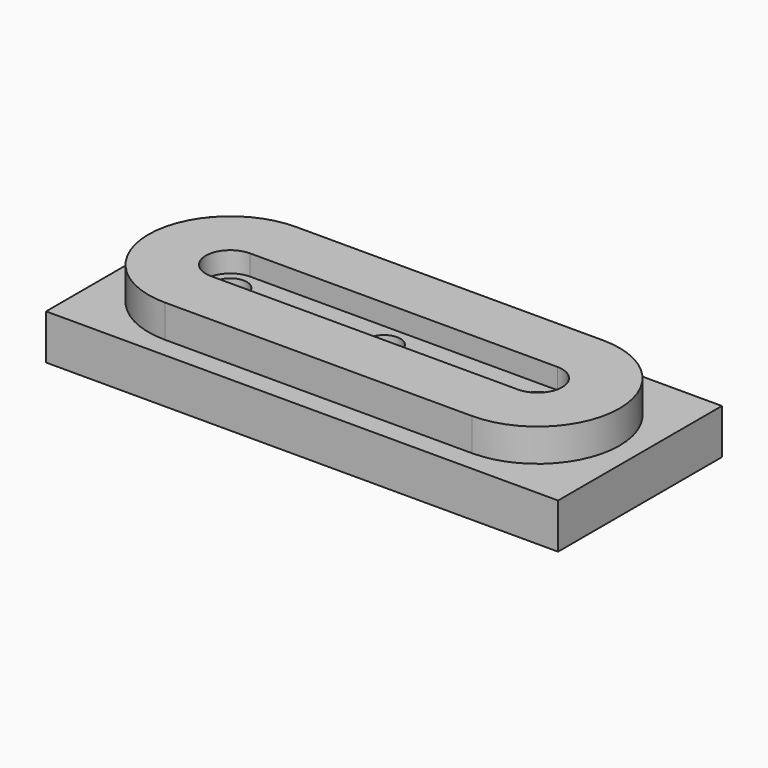
from build123d import *

# Parameters (mm, degrees)
F0_W     = 125
F0_H     = 50
F1_DEPTH = 11
F3_DEPTH = 8
F5_DEPTH = 5
F7_D     = 8
F7_DEPTH = 10.6
F7_TIP   = 2.4034424761
F9_D     = 8
F9_DEPTH = 10.6
F9_TIP   = 2.4034424761


with BuildPart() as f1:
    # F0 (on Top) → F1 (new body)
    with BuildSketch(Plane.XY):
        Rectangle(F0_W, F0_H)
    extrude(amount=F1_DEPTH)

    # F2 (on face) → F3 (join)
    with BuildSketch(Plane.XY.offset(11)):
        with BuildLine():
            ThreePointArc((37.5, -20), (57.5, 0), (37.5, 20))
            Line((37.5, 20), (-37.5, 20))
            ThreePointArc((-37.5, 20), (-57.5, 0), (-37.5, -20))
            Line((-37.5, -20), (37.5, -20))
        make_face()
    extrude(amount=F3_DEPTH)

    # F4 (on face) → F5 (cut)
    with BuildSketch(Plane.XY.offset(19)):
        with BuildLine():
            ThreePointArc((37.5, -6), (43.5, 0), (37.5, 6))
            Line((37.5, 6), (-37.5, 6))
            ThreePointArc((-37.5, 6), (-43.5, 0), (-37.5, -6))
            Line((-37.5, -6), (37.5, -6))
        make_face()
    extrude(amount=-F5_DEPTH, mode=Mode.SUBTRACT)

    # F7
    with Locations(Plane.XY.offset(14)):
        with Locations((0, 0)):
            Hole(F7_D / 2, depth=F7_DEPTH)
            with Locations((0, 0, -(F7_DEPTH + F7_TIP / 2))):  # 118° drill point
                Cone(0, F7_D / 2, F7_TIP, mode=Mode.SUBTRACT)

    # F9
    with Locations(Plane.XY.offset(14)):
        with Locations((-37.5, 0), (37.5, 0)):
            Hole(F9_D / 2, depth=F9_DEPTH)
            with Locations((0, 0, -(F9_DEPTH + F9_TIP / 2))):  # 118° drill point
                Cone(0, F9_D / 2, F9_TIP, mode=Mode.SUBTRACT)


solid = f1.part
